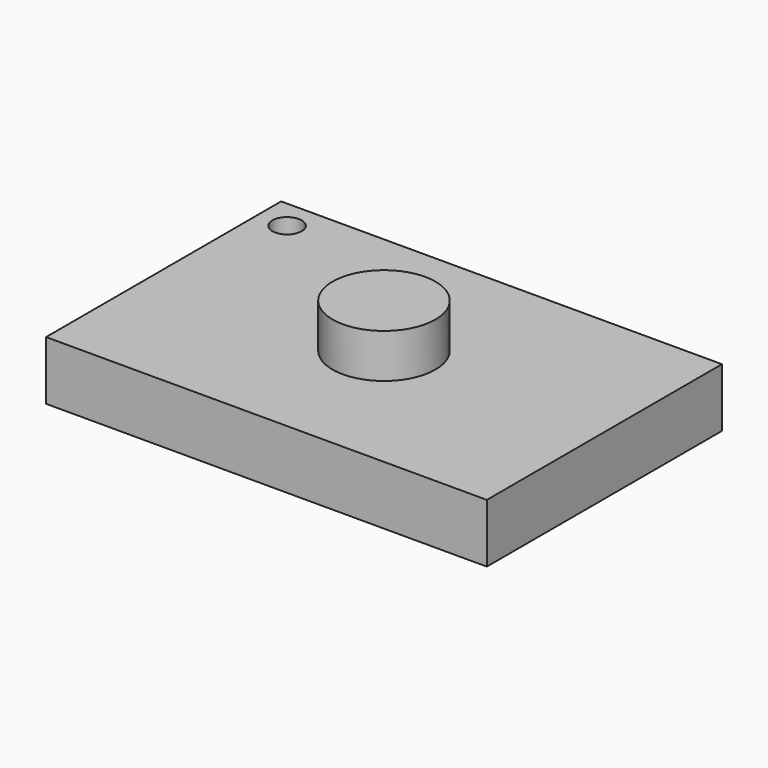
from build123d import *

# Parameters (mm, degrees)
F0_W     = 150
F0_H     = 100
F1_DEPTH = 20
F2_R     = 17.5
F3_DEPTH = 15
F5_D     = 10


with BuildPart() as f1:
    # F0 (on Top) → F1 (new body)
    with BuildSketch(Plane.XY):
        Rectangle(F0_W, F0_H)
    extrude(amount=F1_DEPTH)

    # F2 (on face) → F3 (join)
    with BuildSketch(Plane.XY.offset(20)):
        Circle(F2_R)
    extrude(amount=F3_DEPTH)

    # F5 (through all)
    with Locations(Plane.XY.offset(20)):
        with Locations((-65, 40)):
            Hole(F5_D / 2)


solid = f1.part
